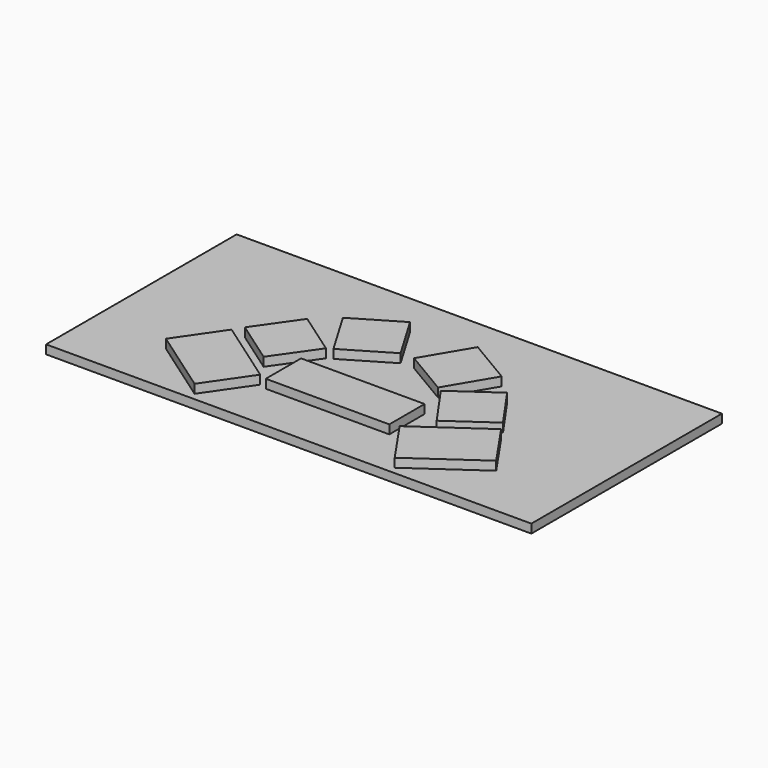
from build123d import *

# Parameters (mm, degrees)
F0_W     = 1397
F0_H     = 685.8
F1_DEPTH = 25.4
F2_W     = 177.188156
F2_H     = 127
F2_W_2   = 178.411844
F3_DEPTH = 25.4


with BuildPart() as f1:
    # F0 (on Top) → F1 (new body)
    with BuildSketch(Plane.XY):
        Rectangle(F0_W, F0_H)
    extrude(amount=F1_DEPTH)


with BuildPart() as f3:
    # F2 (on face) → F3 (new body)
    with BuildSketch(Plane.XY.offset(25.4)):
        with Locations((89.205922, -139.7)):
            Rectangle(F2_W, F2_H)
        with Locations((-88.594078, -139.7)):
            Rectangle(F2_W_2, F2_H)
        Polygon((-200.076583, -195.384446), (-387.334741, -64.264873), (-474.74779, -191.264873), (-287.489632, -322.384446), align=None)
        Polygon((-164.730564, -3.050945), (-287.132964, 82.656138), (-370.903802, -36.981018), (-248.501402, -122.688101), align=None)
        Polygon((-18.799853, 83.107496), (-96.821829, 214.719962), (-227.917412, 137.004403), (-149.895436, 5.391937), align=None)
        Polygon((229.141099, 137.004403), (98.045517, 214.719962), (20.02354, 83.107496), (151.119123, 5.391937), align=None)
        Polygon((372.12749, -36.981018), (288.356651, 82.656138), (165.954251, -3.050945), (249.72509, -122.688101), align=None)
        Polygon((475.971477, -191.264873), (388.558428, -64.264873), (201.300271, -195.384446), (288.71332, -322.384446), align=None)
    extrude(amount=F3_DEPTH)


solid = Compound([f1.part, f3.part])
